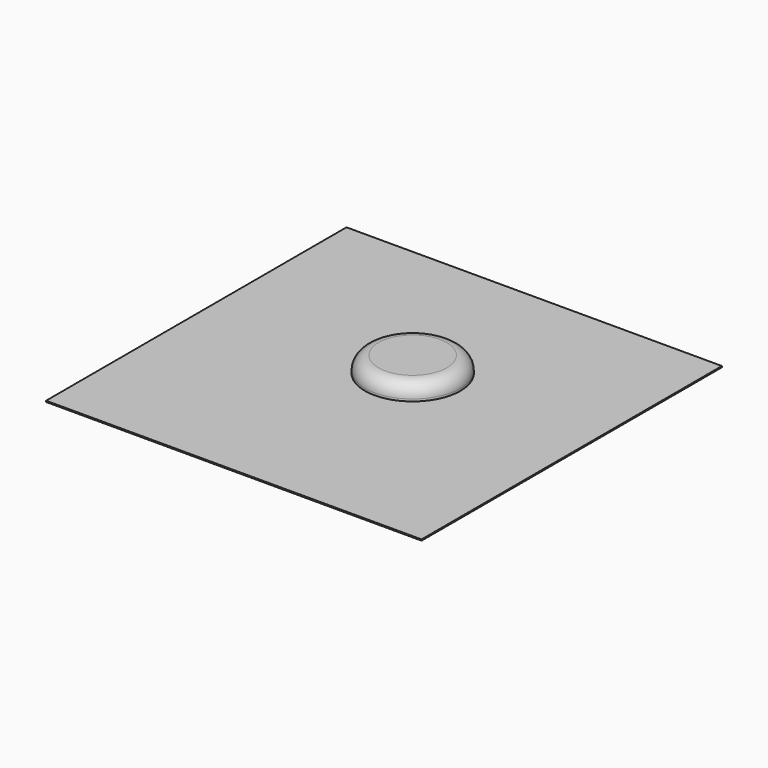
from build123d import *

# Parameters (mm, degrees)
SKETCH006_W  = 11
SKETCH006_H  = 11
PAD003_DEPTH = 0.0348
SKETCH007_R  = 1.4
PAD004_DEPTH = 0.5
FILLET_R     = 0.4


with BuildPart() as part:
    # Sketch006 → Pad003 (new body)
    with BuildSketch(Plane.XY):
        Rectangle(SKETCH006_W, SKETCH006_H)
    extrude(amount=PAD003_DEPTH)

    # Sketch007 → Pad004 (join)
    with BuildSketch(Plane.XY):
        with Locations((0.2, 0.8)):
            Circle(SKETCH007_R)
    extrude(amount=PAD004_DEPTH)

    # Fillet
    fillet_edges = [part.edges().sort_by_distance(p)[0] for p in [
        (-1.2, 0.8, 0.5),
    ]]
    fillet(fillet_edges, radius=FILLET_R)


with BuildPart() as part_1:
    # Body003 placement: moved
    add(part.part.moved(Location((0, 0, 4.7))))


solid = part_1.part
